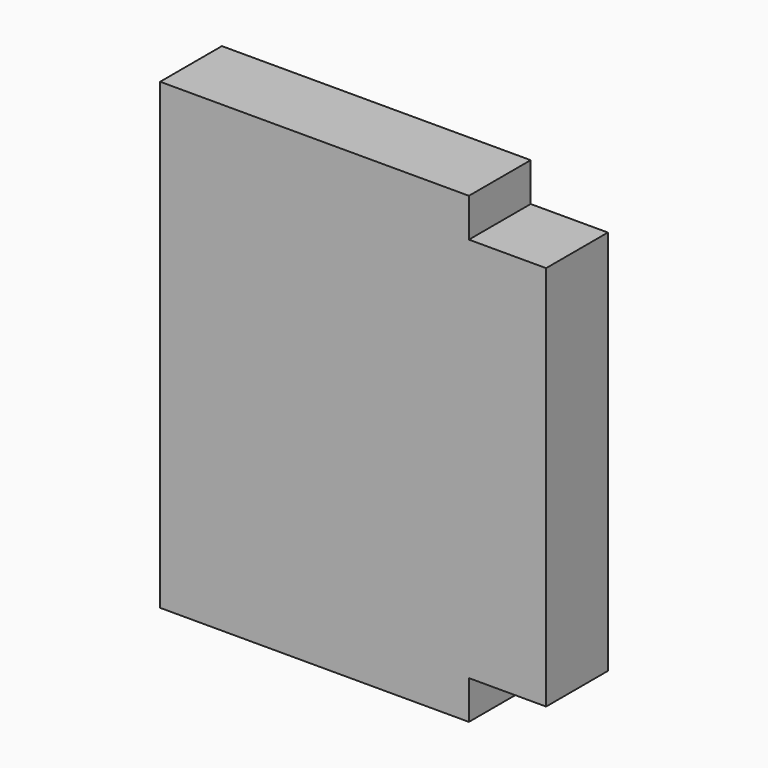
from build123d import *

# Parameters (mm, degrees)
PAD_DEPTH = 10


with BuildPart() as part:
    # Sketch → Pad (new body)
    with BuildSketch(Plane.XZ):
        Polygon((0, 0), (0, 60), (40, 60), (40, 55), (50, 55), (50, 5), (40, 5), (40, 0), align=None)
    extrude(amount=PAD_DEPTH)


solid = part.part
